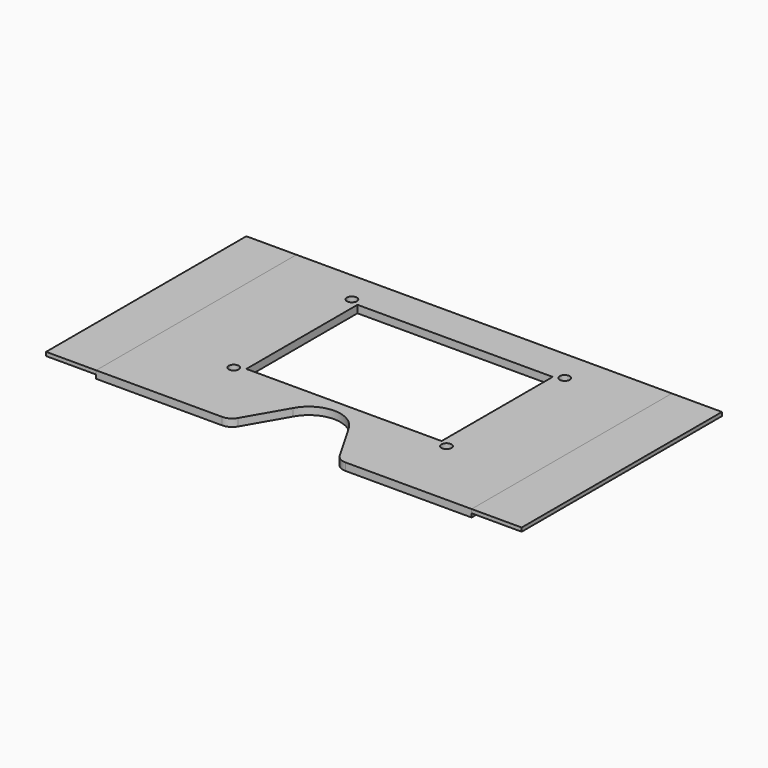
from build123d import *

# Parameters (mm, degrees)
F1_DEPTH  = 3
F3_DEPTH  = 25
F4_R      = 5
F5_R      = 11.15
F5_R_2    = 2.65
F6_DEPTH  = 25
F7_W      = 78
F7_H      = 55.5
F7_R      = 2
F8_DEPTH  = 25
F9_R      = 8.15
F10_DEPTH = 25
F12_W     = 138.9529037597
F12_H     = 109.3872413095
F12_W_2   = 150.4097267888
F12_H_2   = 110.1016509688
F13_DEPTH = 25
F14_W     = 20
F14_H     = 100
F15_DEPTH = 1.5


with BuildPart() as f1:
    # F0 (on Top) → F1 (new body)
    with BuildSketch(Plane.XY):
        with BuildLine():
            Line((-197.8147600734, 20.7911690818), (-202.2340594865, 0))
            Line((-202.2340594865, 0), (216.0975214603, 0))
            Line((216.0975214603, 0), (209.2885731253, 20.7911690818))
            ThreePointArc((209.2885731253, 20.7911690818), (167.4870934164, 78.1154778874), (100, 100))
            Line((100, 100), (-100, 100))
            ThreePointArc((-100, 100), (-162.932039105, 77.7145961457), (-197.8147600734, 20.7911690818))
        make_face()
    extrude(amount=F1_DEPTH)

    # F2 (on face) → F3 (cut)
    with BuildSketch(Plane.XY.offset(3)):
        with BuildLine():
            ThreePointArc((1.5842979518, 0), (9.4530988092, 4.1693984068), (12.6, 12.5))
            ThreePointArc((12.6, 12.5), (12.2192388124, 15.5741182224), (11.0999678023, 18.4624420155))
            ThreePointArc((11.0999678023, 18.4624420155), (0, 25.1), (-11.0999678023, 18.4624420155))
            ThreePointArc((-11.0999678023, 18.4624420155), (-11.1999147641, 6.7274867453), (-1.5842979518, 0))
            Line((-1.5842979518, 0), (1.5842979518, 0))
        make_face()
        with BuildLine():
            ThreePointArc((11.0999678023, 18.4624420155), (12.2192388124, 15.5741182224), (12.6, 12.5))
            ThreePointArc((12.6, 12.5), (9.4530988092, 4.1693984068), (1.5842979518, 0))
            Line((1.5842979518, 0), (21.7592636698, 0))
            Line((21.7592636698, 0), (11.0999678023, 18.4624420155))
        make_face()
        with BuildLine():
            ThreePointArc((-1.5842979518, 0), (0, -0.1), (1.5842979518, 0))
            Line((1.5842979518, 0), (-1.5842979518, 0))
        make_face()
        with BuildLine():
            ThreePointArc((-1.5842979518, 0), (-11.1999147641, 6.7274867453), (-11.0999678023, 18.4624420155))
            Line((-11.0999678023, 18.4624420155), (-21.7592636698, 0))
            Line((-21.7592636698, 0), (-1.5842979518, 0))
        make_face()
    extrude(amount=-F3_DEPTH, mode=Mode.SUBTRACT)

    # F4
    f4_edges = [f1.edges().sort_by_distance(p)[0] for p in [
        (-21.759264, 0, 1.5),
        (21.759264, 0, 1.5),
    ]]
    fillet(f4_edges, radius=F4_R)

    # F5 (on face) → F6 (cut)
    with BuildSketch(Plane.XY.offset(3)):
        Polygon((-145, 38.9489291724), (-152.75, 34.4744645862), (-152.75, 25.5255354138), (-145, 21.0510708276), (-137.25, 25.5255354138), (-137.25, 34.4744645862), align=None)
        with Locations((-115, 30)):
            Circle(F5_R)
        with Locations((-115, 60)):
            Circle(F5_R_2)
        with Locations((-145, 60)):
            Circle(F5_R_2)
    extrude(amount=-F6_DEPTH, mode=Mode.SUBTRACT)

    # F7 (on face) → F8 (cut)
    with BuildSketch(Plane.XY.offset(3)):
        with Locations((0, 57.75)):
            Rectangle(F7_W, F7_H)
        with Locations((-42.6313167033, 28.25)):
            Circle(F7_R)
        with Locations((-42.6313167033, 87.25)):
            Circle(F7_R)
        with Locations((42.3686832967, 87.25)):
            Circle(F7_R)
        with Locations((42.3686832967, 28.25)):
            Circle(F7_R)
    extrude(amount=-F8_DEPTH, mode=Mode.SUBTRACT)

    # F9 (on face) → F10 (cut)
    with BuildSketch(Plane.XY.offset(3)):
        with Locations((115, 30)):
            Circle(F9_R)
    extrude(amount=-F10_DEPTH, mode=Mode.SUBTRACT)

    # F12 (on face) → F13 (cut)
    with BuildSketch(Plane.XY.offset(3)):
        with Locations((-144.4764518799, 54.6936206547)):
            Rectangle(F12_W, F12_H)
        with Locations((150.2048633944, 55.0508254844)):
            Rectangle(F12_W_2, F12_H_2)
    extrude(amount=-F13_DEPTH, mode=Mode.SUBTRACT)


with BuildPart() as f15:
    # F14 (on face) → F15 (new body)
    with BuildSketch(Plane.XY.offset(3)):
        with Locations((-85, 50)):
            Rectangle(F14_W, F14_H)
    extrude(amount=-F15_DEPTH)


with BuildPart() as f15b:
    # F14 (on face) → F15, piece 2 (new body)
    with BuildSketch(Plane.XY.offset(3)):
        with Locations((85, 50)):
            Rectangle(F14_W, F14_H)
    extrude(amount=-F15_DEPTH)


solid = Compound([f1.part, f15.part, f15b.part])
